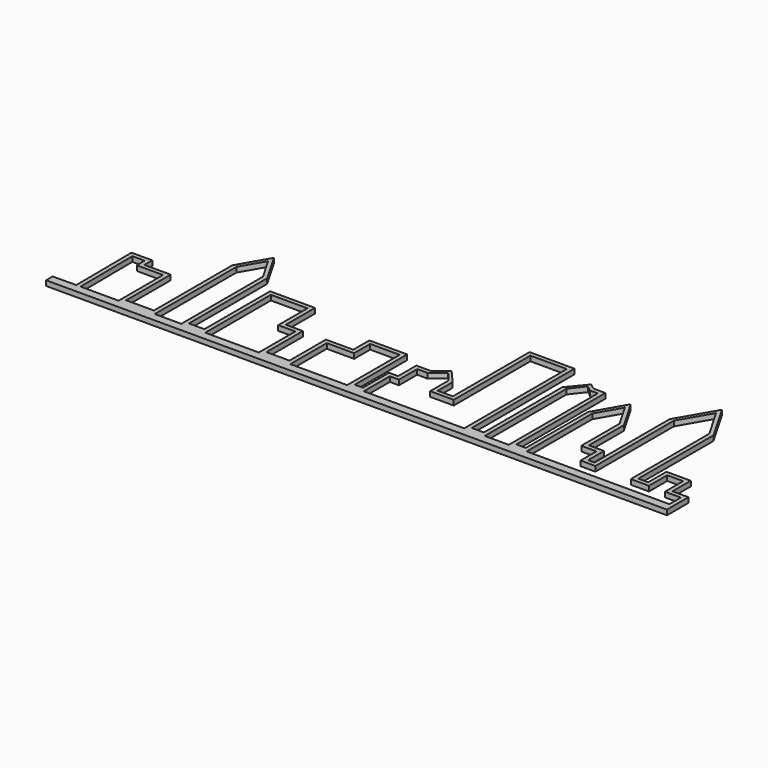
from build123d import *

# Parameters (mm, degrees)
F1_DEPTH = 1.2


with BuildPart() as f1:
    # F0 (on Top) → F1 (new body)
    with BuildSketch(Plane.XY):
        Polygon((-8.791217, 10.820824), (-8.791217, 15.58735), (-1.791217, 15.58735), (-1.791217, 0), (0, 0), (2.168675, 0), (2.168675, 7.725904), (4.33735, 7.725904), (4.33735, 13.147592), (6.77711, 13.147592), (9.759036, 15.58735), (11.755203, 13.147592), (11.755203, 7.725904), (17.3494, 7.725904), (17.3494, 30.496988), (26.024099, 30.496988), (26.024099, 7.725904), (26.024099, 0), (30.903617, 0), (30.903617, 19.495524), (30.903617, 24.262048), (33.421363, 27.499158), (34.764209, 26.454724), (36.612159, 26.454724), (36.612159, 24.262048), (36.612159, 0), (40.858796, 0), (40.858796, 19.495524), (44.108796, 25.124689), (47.358796, 19.495524), (47.358796, 8.10998), (50.963856, 8.10998), (50.963856, 3.388554), (54.483884, 3.388554), (54.483884, 26.713658), (58.685689, 33.991398), (62.887494, 26.713658), (62.887494, 3.388554), (67.212614, 3.388554), (67.212614, 8.810241), (71.00779, 8.810241), (71.00779, 3.388554), (74.802975, 3.388554), (74.802975, 0), (75.802975, 0), (75.802975, 4.388554), (74.802975, 4.388554), (72.00779, 4.388554), (72.00779, 9.810241), (68.572836, 9.810241), (66.212614, 9.810241), (66.212614, 6.689354), (66.212614, 4.388554), (64.699309, 4.388554), (63.875258, 4.388554), (63.887494, 26.713658), (58.694566, 35.708074), (53.483884, 26.682909), (53.483884, 4.388554), (51.963856, 4.388554), (51.963856, 9.10998), (48.358796, 9.10998), (48.358796, 19.495524), (44.108796, 26.85674), (39.858796, 19.495524), (39.858796, 1), (37.612159, 1), (37.612159, 27.454724), (34.764209, 27.454724), (34.232993, 27.867891), (33.421363, 28.499158), (29.903617, 24.262048), (29.903617, 1), (27.024099, 1), (27.024099, 31.496988), (16.3494, 31.496988), (16.3494, 8.725904), (12.755203, 8.725904), (12.755203, 13.147592), (9.759036, 16.58735), (6.77711, 14.147592), (4.33735, 14.147592), (3.33735, 14.147592), (3.33735, 8.725904), (1.168675, 8.725904), (1.168675, 1), (-0.791217, 1), (-0.791217, 16.58735), (-9.791217, 16.58735), (-9.791217, 11.820824), (-16.291217, 11.820824), (-16.291217, 1), (-21.771085, 1), (-21.771085, 11.820824), (-25.821578, 11.820824), (-25.821578, 20.495524), (-30.47494, 20.495524), (-36.512049, 20.495524), (-36.512049, 1), (-40.204821, 1), (-40.204821, 24.262048), (-44.357452, 31.454616), (-48.510083, 24.262048), (-48.510083, 1), (-55.096389, 1), (-55.096389, 14.208821), (-61.347563, 14.208821), (-61.347563, 16.556969), (-66.283464, 16.556969), (-66.144578, 0), (-65.144543, 0), (-65.275041, 15.556969), (-62.351945, 15.581489), (-62.347563, 15.059114), (-62.347563, 13.208821), (-56.096389, 13.208821), (-56.096389, 0), (-51.847431, 0), (-47.510083, 0), (-47.510083, 24.262048), (-44.357452, 29.722565), (-41.204821, 24.262048), (-41.204821, 0), (-35.512049, 0), (-35.512049, 19.495524), (-26.821578, 19.495524), (-26.821578, 10.820824), (-22.771085, 10.820824), (-22.771085, 0), (-17.891567, 0), (-15.291217, 0), (-15.291217, 1), (-15.291217, 10.820824), align=None)
        Polygon((0, 0), (-1.791217, 0), (-15.291217, 0), (-17.891567, 0), (-22.771085, 0), (-35.512049, 0), (-41.204821, 0), (-47.510083, 0), (-51.847431, 0), (-56.096389, 0), (-65.144543, 0), (-66.144578, 0), (-71.747227, -0.046997), (-71.730845, -2), (74.802975, -2), (75.802975, -2), (75.802975, 0), (74.802975, 0), (40.858796, 0), (36.612159, 0), (30.903617, 0), (26.024099, 0), (2.168675, 0), align=None)
    extrude(amount=F1_DEPTH)


solid = f1.part
